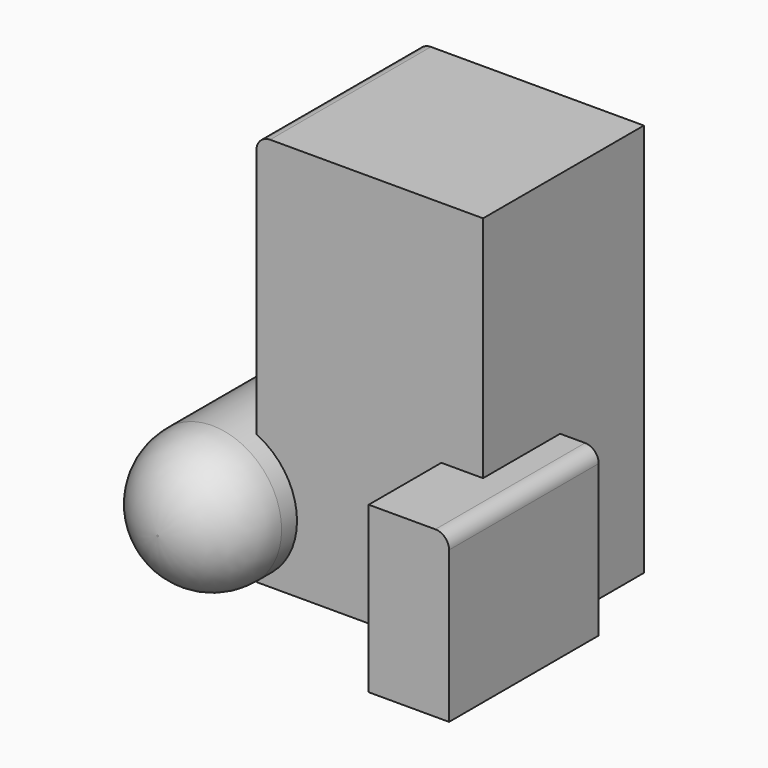
from build123d import *

# Parameters (mm, degrees)
F0_W     = 29.826738
F0_H     = 61.290868
F1_DEPTH = 69.43786
F2_R     = 5.08
F3_R     = 25.710907
F4_DEPTH = 68.29451
F5_R     = 25.4
F6_W     = 84.138699
F6_H     = 74.612185
F7_DEPTH = 146.220258
F8_R     = 5.08


with BuildPart() as f1:
    # F0 (on Front) → F1 (new body)
    with BuildSketch(Plane.XZ):
        with Locations((43.966837, 30.645434)):
            Rectangle(F0_W, F0_H)
    extrude(amount=F1_DEPTH)

    # F2
    f2_edges = [f1.edges().sort_by_distance(p)[0] for p in [
        (58.880206, -34.71893, 61.290868),
    ]]
    fillet(f2_edges, radius=F2_R)


with BuildPart() as f4:
    # F3 (on Front) → F4 (new body)
    with BuildSketch(Plane.XZ):
        with Locations((-50.234728, 24.868451)):
            Circle(F3_R)
    extrude(amount=F4_DEPTH)

    # F5
    f5_edges = [f4.edges().sort_by_distance(p)[0] for p in [
        (-75.945634, -68.29451, 24.868451),
    ]]
    fillet(f5_edges, radius=F5_R)


with BuildPart() as f7:
    # F6 (on Top) → F7 (new body)
    with BuildSketch(Plane.XY):
        with Locations((2.474676, 1.560874)):
            Rectangle(F6_W, F6_H)
    extrude(amount=F7_DEPTH)

    # F8
    f8_edges = [f7.edges().sort_by_distance(p)[0] for p in [
        (-39.594673, 1.560874, 146.220258),
    ]]
    fillet(f8_edges, radius=F8_R)


solid = Compound([f1.part, f4.part, f7.part])
